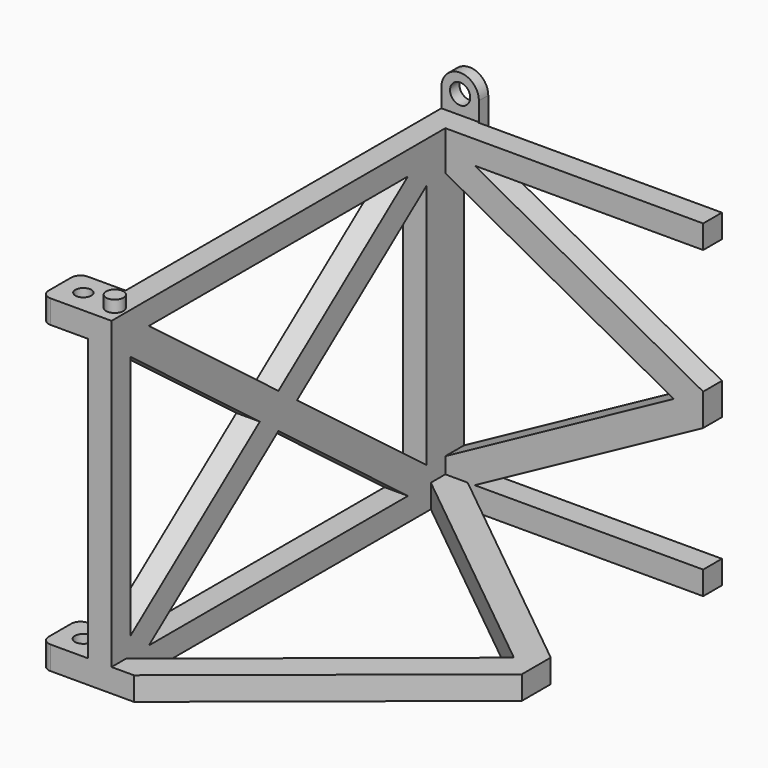
from build123d import *

# Parameters (mm, degrees)
SKETCH_W                   = 55
SKETCH_H                   = 44.5
PAD_DEPTH                  = 5
PAD001_DEPTH               = 5
PAD001_MIRRORED001_2_DEPTH = 5
PAD002_DEPTH               = 5
SKETCH003_R                = 1.85
PAD003_DEPTH               = 2.5
SKETCH004_R                = 2.15
PAD004_DEPTH               = 2.7
SKETCH005_W                = 0.2
SKETCH005_H                = 8
POCKET_DEPTH               = 60.001
SKETCH006_R                = 1.85
PAD005_DEPTH               = 2.5
SKETCH007_R                = 2.15
POCKET001_DEPTH            = 3
PAD006_DEPTH               = 5
SKETCH009_R                = 1.8
HOLE_DEPTH                 = 25
HOLE_TIPS_R                = 1.8
PAD007_DEPTH               = 5
POCKET002_DEPTH            = 2.15
SKETCH012_R                = 1.7
HOLE001_DEPTH              = 10.851
POCKET003_DEPTH            = 290.201912


with BuildPart() as part:
    # Sketch → Pad (new body)
    with BuildSketch(Plane.XY):
        with Locations((-27.5, -22.25)):
            Rectangle(SKETCH_W, SKETCH_H)
    pad = extrude(amount=PAD_DEPTH)

    # Mirrored: Pad across XZ
    add(pad.mirror(Plane.XZ))

    # Sketch001 (on Face1 of Mirrored) → Pad001 (join)
    with BuildSketch(Plane(origin=(-55, 0, 0), x_dir=(0, -1, 0), z_dir=(-1, 0, 0))):
        Polygon((0, 0), (44.5, 0), (44.5, 35), (39.5, 35), (39.5, 8.767158), (4.960091, 35), (0, 35), (0, 31.232842), (34.539909, 5), (0, 5), align=None)
    pad001 = extrude(amount=PAD001_DEPTH)

    # Sketch001 Mirrored001 2 → Pad001 Mirrored001 2 (add)
    with BuildSketch(Plane.YZ.offset(-55)):
        Polygon((0, 0), (44.5, 0), (44.5, 35), (39.5, 35), (39.5, 8.767158), (4.960091, 35), (0, 35), (0, 31.232842), (34.539909, 5), (0, 5), align=None)
    pad001_mirrored001_2 = extrude(amount=-PAD001_MIRRORED001_2_DEPTH)

    # Mirrored002: Pad001, Pad001 Mirrored001 2 across face of Pad001
    add(pad001.mirror(Plane(origin=(-57.5, -2.480045, 35), x_dir=(1, 0, 0), z_dir=(0, 0, 1))))
    add(pad001_mirrored001_2.mirror(Plane(origin=(-57.5, -2.480045, 35), x_dir=(1, 0, 0), z_dir=(0, 0, 1))))

    # Sketch002 (on Face1 of MultiTransform) → Pad002 (join)
    with BuildSketch(Plane(origin=(0, 44.5, 0), x_dir=(-1, 0, 0), z_dir=(0, 1, 0))):
        Polygon((6.264982, 35), (55, 8.417263), (55, 35), (60, 35), (60, 0), (0, 0), (0, 5), (48.735018, 5), (0, 31.582737), (0, 35), align=None)
    pad002 = extrude(amount=PAD002_DEPTH)

    # Mirrored003: Pad002 across face of Pad002
    add(pad002.mirror(Plane(origin=(-3.132491, 47, 35), x_dir=(1, 0, 0), z_dir=(0, 0, 1))))

    # Sketch003 (on Face8 of Mirrored003) → Pad003 (join)
    with BuildSketch(Plane(origin=(0, 49.5, 0), x_dir=(-1, 0, 0), z_dir=(0, 1, 0))):
        with Locations((56, 4)):
            Circle(SKETCH003_R)
    extrude(amount=PAD003_DEPTH)

    # Sketch004 (on Face19 of Pad003) → Pad004 (join)
    with BuildSketch(Plane(origin=(0, 49.5, 0), x_dir=(-1, 0, 0), z_dir=(0, 1, 0))):
        with BuildLine():
            Line((60, 62), (60, 74))
            ThreePointArc((60, 74), (56, 78), (52, 74))
            Line((52, 74), (52, 62))
            Line((52, 62), (60, 62))
        make_face()
        with Locations((56, 74)):
            Circle(SKETCH004_R, mode=Mode.SUBTRACT)
    extrude(amount=PAD004_DEPTH)

    # Sketch005 (on Face56 of Pad004) → Pocket (cut, through all)
    with BuildSketch(Plane(origin=(-60, 0, 0), x_dir=(0, -1, 0), z_dir=(-1, 0, 0))):
        Polygon((-52.2, 68), (-49.5, 62), (-52.2, 62), align=None)
        with Locations((-49.6, 74)):
            Rectangle(SKETCH005_W, SKETCH005_H)
    extrude(amount=-POCKET_DEPTH, mode=Mode.SUBTRACT)

    # Sketch006 (on Face59 of Pocket) → Pad005 (join)
    with BuildSketch(Plane.XY.offset(70)):
        with Locations((-57.5, -40.5)):
            Circle(SKETCH006_R)
    extrude(amount=PAD005_DEPTH)

    # Sketch007 (on Face24 of Pad005) → Pocket001 (cut)
    with BuildSketch(Plane(origin=(0, 0, 0), x_dir=(1, 0, 0), z_dir=(0, 0, -1))):
        with Locations((-57.5, 40.5)):
            Circle(SKETCH007_R)
    extrude(amount=-POCKET001_DEPTH, mode=Mode.SUBTRACT)

    # Sketch008 (on Face24 of Pocket001) → Pad006 (join)
    with BuildSketch(Plane(origin=(0, 0, 0), x_dir=(1, 0, 0), z_dir=(0, 0, -1))):
        with BuildLine():
            Line((-60, 44.5), (-68, 44.5))
            ThreePointArc((-68, 44.5), (-69.414214, 43.914214), (-70, 42.5))
            Line((-70, 42.5), (-70, 39.5))
            Line((-70, 39.5), (-60, 39.5))
            Line((-60, 39.5), (-60, 44.5))
        make_face()
    pad006 = extrude(amount=-PAD006_DEPTH)

    # Mirrored004: Pad006 across face of Pad006
    add(pad006.mirror(Plane(origin=(-65, -39.5, 2.5), x_dir=(-1, 0, 0), z_dir=(0, 1, 0))))

    # Sketch009 (on Face46 of Mirrored004) → Hole (cut)
    with BuildSketch(Plane(origin=(0, 0, 0), x_dir=(1, 0, 0), z_dir=(0, 0, -1))):
        with Locations((-65, 39.5)):
            Circle(SKETCH009_R)
    extrude(amount=-HOLE_DEPTH, mode=Mode.SUBTRACT)

    # Hole tips → Hole tip 1 section 0
    with BuildSketch(Plane(origin=(0, 0, 25), x_dir=(1, 0, 0), z_dir=(0, 0, -1)), mode=Mode.PRIVATE) as hole_tip_1_s0:
        with Locations((-65, 39.5)):
            Circle(HOLE_TIPS_R)
    loft([hole_tip_1_s0.sketch, Vertex(-65, -39.5, 26.081549)], mode=Mode.SUBTRACT)

    # Sketch010 (on Face65 of Hole) → Pad007 (join)
    with BuildSketch(Plane.XY.offset(70)):
        with BuildLine():
            Line((-60, -44.5), (-68, -44.5))
            ThreePointArc((-70, -42.5), (-69.414214, -43.914214), (-68, -44.5))
            Line((-70, -42.5), (-70, -39.5))
            Line((-70, -39.5), (-60, -39.5))
            Line((-60, -39.5), (-60, -44.5))
        make_face()
    pad007 = extrude(amount=-PAD007_DEPTH)

    # Mirrored005: Pad007 across face of Pad007
    add(pad007.mirror(Plane(origin=(-65, -39.5, 67.5), x_dir=(-1, 0, 0), z_dir=(0, 1, 0))))

    # Sketch011 (on Face89 of Mirrored005) → Pocket002 (cut)
    with BuildSketch(Plane(origin=(0, 0, 65), x_dir=(1, 0, 0), z_dir=(0, 0, -1))):
        Polygon((-65, 42.848632), (-67.9, 41.174316), (-67.9, 37.825684), (-65, 36.151368), (-62.1, 37.825684), (-62.1, 41.174316), align=None)
    extrude(amount=-POCKET002_DEPTH, mode=Mode.SUBTRACT)

    # Sketch012 (on Face102 of Pocket002) → Hole001 (cut, through all)
    with BuildSketch(Plane(origin=(0, 0, 67.15), x_dir=(1, 0, 0), z_dir=(0, 0, -1))):
        with Locations((-65, 39.5)):
            Circle(SKETCH012_R)
    extrude(amount=-HOLE001_DEPTH, mode=Mode.SUBTRACT)

    # Sketch013 (on Face11 of Hole001) → Pocket003 (cut, through all)
    with BuildSketch(Plane.XY.offset(5)):
        Polygon((0, -3.85897), (-50.230486, -44.5), (0, -44.5), align=None)
        Polygon((-55, 0), (-4.769514, 0), (-55, -40.64103), align=None)
    pocket003 = extrude(amount=-POCKET003_DEPTH, mode=Mode.SUBTRACT)

    # Mirrored006: Pocket003 across XZ
    add(pocket003.mirror(Plane.XZ), mode=Mode.SUBTRACT)


solid = part.part
